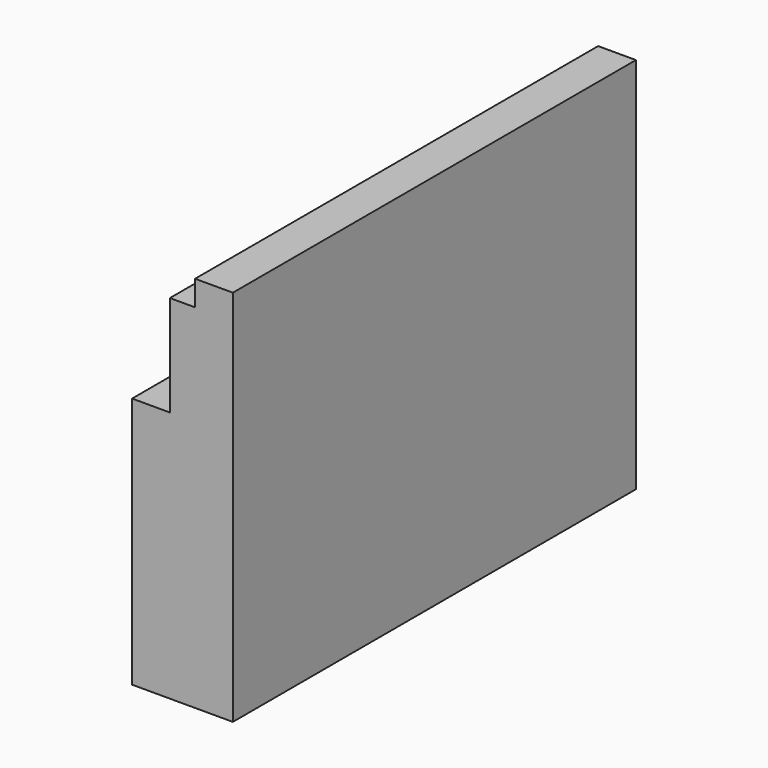
from build123d import *

# Parameters (mm, degrees)
F1_DEPTH = 100
F3_D     = 5
F3_DEPTH = 15
F3_TIP   = 1.5021515476


with BuildPart() as f1:
    # F0 (on Front) → F1 (new body)
    with BuildSketch(Plane.XZ):
        Polygon((137.5, 75), (130, 75), (130, 70), (125, 70), (125, 50), (117.5, 50), (117.5, 0), (137.5, 0), align=None)
    extrude(amount=F1_DEPTH)

    # F3
    with Locations(Plane(origin=(0, 0, 0), x_dir=(1, 0, 0), z_dir=(0, 0, -1))):
        with Locations((127.5, 75), (127.5, 25)):
            Hole(F3_D / 2, depth=F3_DEPTH)
            with Locations((0, 0, -(F3_DEPTH + F3_TIP / 2))):  # 118° drill point
                Cone(0, F3_D / 2, F3_TIP, mode=Mode.SUBTRACT)


solid = f1.part
